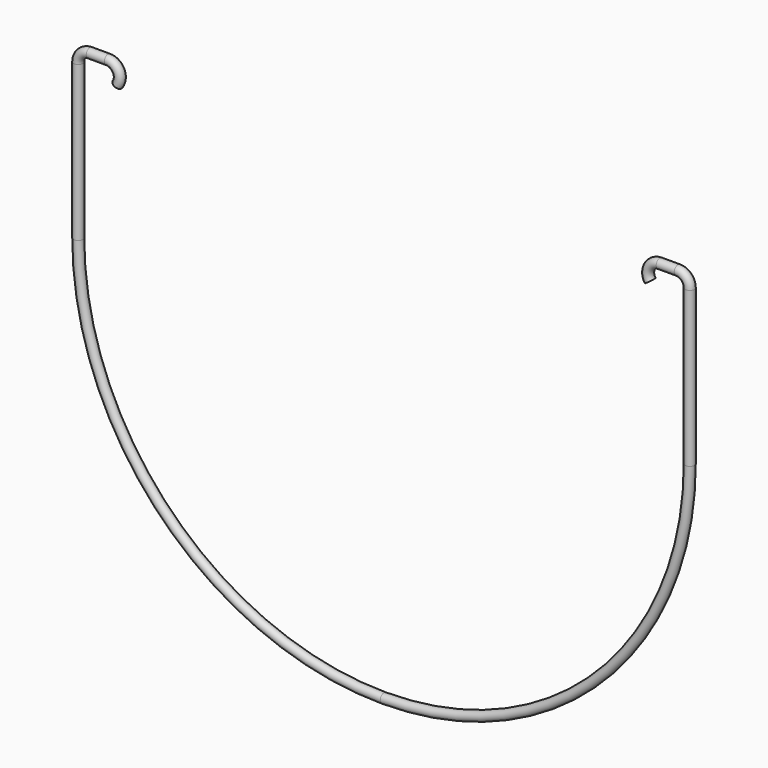
from build123d import *

# Parameters (mm, degrees)
F2_R = 0.508


with BuildPart() as f3:
    # F3: sweep along a path in F1
    with BuildLine(Plane.XZ.offset(20.955)) as f3_path:
        ThreePointArc((0, 15.6529568557), (23.3486659148, 25.3242909409), (33.02, 48.6729568557))
        Line((33.02, 48.6729568557), (33.02, 65.405))
        ThreePointArc((33.02, 65.405), (32.6480256121, 66.3030256121), (31.75, 66.675))
        Line((31.75, 66.675), (29.7981500626, 66.675))
        ThreePointArc((29.7981500626, 66.675), (28.6735165287, 65.9949995038), (28.7532158469, 64.6831880543))
    # F2 (on Right) → F3 (sweep)
    with BuildSketch(Plane.YZ):
        with Locations((-20.955, 15.6529568557)):
            Circle(F2_R)
    sweep(path=f3_path.line)

    # F4: F3 across plane


with BuildPart() as f3_1:
    add(f3.part)
    add(f3.part.mirror(Plane.YZ))


with BuildPart() as f3_2:
    # F6: moved
    add(f3_1.part.moved(Location((0, 0, -66.675))))


solid = f3_2.part
